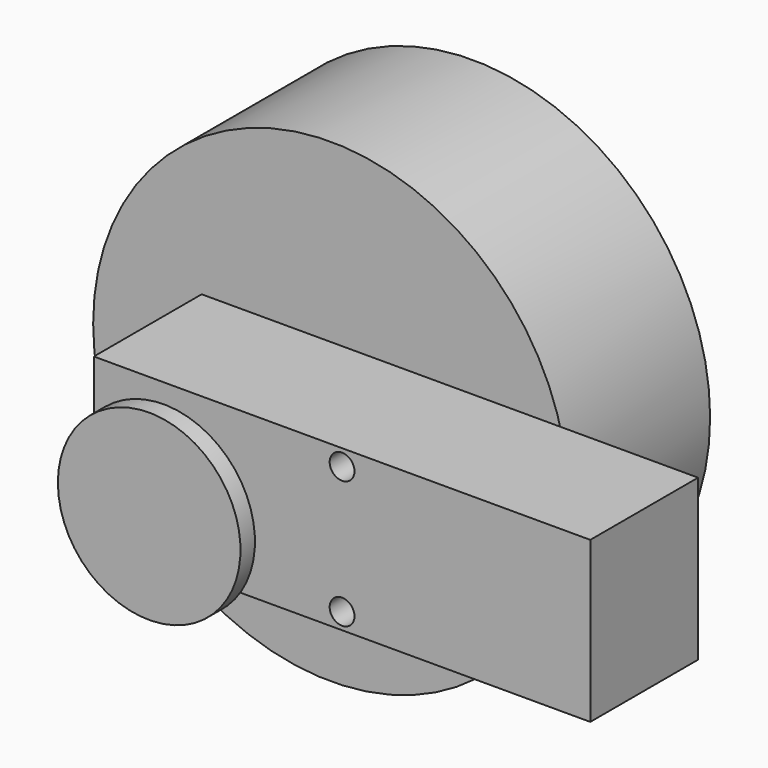
from build123d import *

# Parameters (mm, degrees)
SKETCH023_W       = 70
SKETCH023_H       = 19
PAD010_DEPTH      = 22.6
SKETCH001_R       = 1.75
POCKET007_DEPTH   = 19.001
SKETCH002_R       = 2.65
PAD011_DEPTH      = 4
PAD011_DEPTH_BACK = 28
SKETCH026_R       = 33.5
PAD014_DEPTH      = 25
SKETCH027_R       = 12.875
PAD015_DEPTH      = 2.55


with BuildPart() as obj1:
    # Sketch023 → Pad010 (new body)
    with BuildSketch(Plane.XY):
        Rectangle(SKETCH023_W, SKETCH023_H)
    extrude(amount=PAD010_DEPTH)

    # Sketch001 (on Face3 of Pad010) → Pocket007 (cut, through all)
    with BuildSketch(Plane.XZ.offset(9.5)):
        with Locations((0, 20.3)):
            Circle(SKETCH001_R)
        with Locations((0, 2.3)):
            Circle(SKETCH001_R)
    extrude(amount=-POCKET007_DEPTH, mode=Mode.SUBTRACT)

    # Sketch002 (on Face8 of Pocket007) → Pad011 (join, two sides)
    with BuildSketch(Plane.XZ.offset(9.5)) as pad011_sk:
        with Locations((-20, 11.3)):
            Circle(SKETCH002_R)
    extrude(amount=PAD011_DEPTH)
    extrude(pad011_sk.sketch, amount=-PAD011_DEPTH_BACK)

    # Sketch026 (on Face12 of Pad011) → Pad014 (join)
    with BuildSketch(Plane.XZ.offset(13.5)):
        with Locations((-20, 11.3)):
            Circle(SKETCH026_R)
    extrude(amount=PAD014_DEPTH)

    # Sketch027 (on Face14 of Pad014) → Pad015 (join)
    with BuildSketch(Plane(origin=(0, 18.5, 0), x_dir=(-1, 0, 0), z_dir=(0, 1, 0))):
        with Locations((20, 11.3)):
            Circle(SKETCH027_R)
    extrude(amount=-PAD015_DEPTH)


with BuildPart() as obj1_1:
    # Body002 placement: moved
    add(obj1.part.moved(Location((0, -40, -31))))


with BuildPart() as part_mirroring:
    # Part__Mirroring: instance of obj1
    add(obj1_1.part.mirror(Plane(origin=(0, 0, 0), x_dir=(1, 0, 0), z_dir=(0, 1, 0))))


solid = part_mirroring.part
